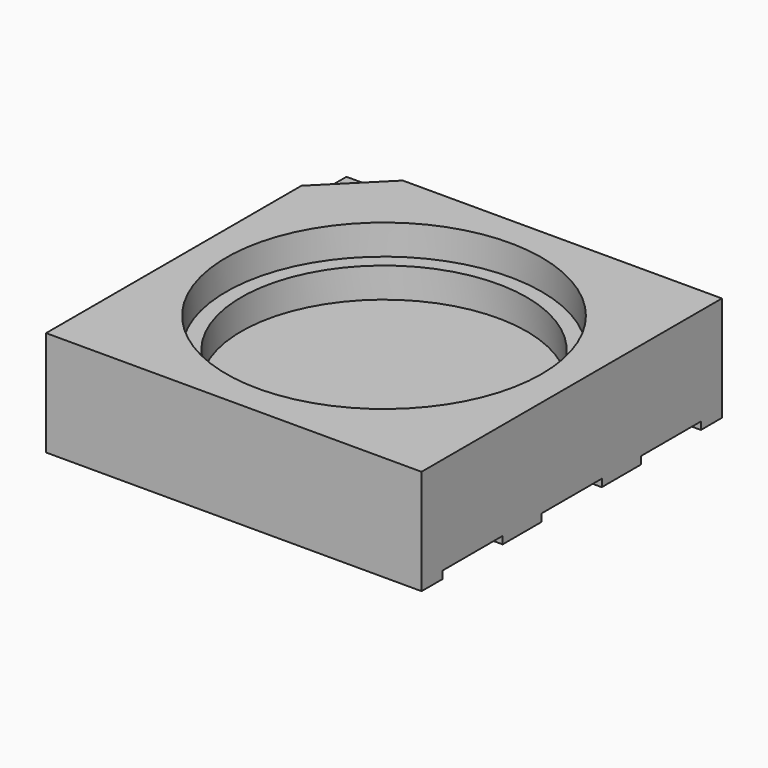
from build123d import *

# Parameters (mm, degrees)
SKETCH003_R       = 0.45
SKETCH003_W       = 0.8
SKETCH003_H       = 1
EXTRUDE002_DEPTH  = 0.1
EXTRUDE001_DEPTH  = 0.2
CYLINDER001_R     = 1.9
CYLINDER001_DEPTH = 0.8
CYLINDER_R        = 2.1
CYLINDER_DEPTH    = 0.4
SKETCH001_W       = 5
SKETCH001_H       = 5
EXTRUDE_DEPTH     = 1.4


with BuildPart() as bottomcutouts:
    # Sketch003 → Extrude002 (new body)
    with BuildSketch(Plane.XY):
        Circle(SKETCH003_R)
        with Locations((2.1, 0)):
            Rectangle(SKETCH003_W, SKETCH003_H)
        with Locations((2.1, 1.65)):
            Rectangle(SKETCH003_W, SKETCH003_H)
        with Locations((2.1, -1.65)):
            Rectangle(SKETCH003_W, SKETCH003_H)
        with Locations((-2.1, 0)):
            Rectangle(SKETCH003_W, SKETCH003_H)
        with Locations((-2.1, 1.65)):
            Rectangle(SKETCH003_W, SKETCH003_H)
        with Locations((-2.1, -1.65)):
            Rectangle(SKETCH003_W, SKETCH003_H)
    extrude(amount=EXTRUDE002_DEPTH)


with BuildPart() as trianglenotch:
    # Sketch002 → Extrude001 (new body)
    with BuildSketch(Plane.XY):
        Polygon((-2.5, 2.5), (-1.75, 2.5), (-2.5, 1.75), align=None)
    extrude(amount=EXTRUDE001_DEPTH)


with BuildPart() as trianglenotch_1:
    # Extrude001 placement: moved
    add(trianglenotch.part.moved(Location((0, 0, 1.2))))


with BuildPart() as obj1:
    # Cylinder001 → Cylinder001 (new body)
    with BuildSketch(Plane.XY.offset(0.6)):
        Circle(CYLINDER001_R)
    extrude(amount=CYLINDER001_DEPTH)


with BuildPart() as lenshole:
    # Cylinder → Cylinder (new body)
    with BuildSketch(Plane.XY.offset(1)):
        Circle(CYLINDER_R)
    extrude(amount=CYLINDER_DEPTH)


with BuildPart() as plasticbody:
    # Sketch001 → Extrude (new body)
    with BuildSketch(Plane.XY):
        Rectangle(SKETCH001_W, SKETCH001_H)
    extrude(amount=EXTRUDE_DEPTH)

    # Cut: cut LensHole
    add(lenshole.part, mode=Mode.SUBTRACT)

    # Cut001: cut obj1
    add(obj1.part, mode=Mode.SUBTRACT)

    # Cut002: cut TriangleNotch
    add(trianglenotch_1.part, mode=Mode.SUBTRACT)

    # Cut003: cut BottomCutouts
    add(bottomcutouts.part, mode=Mode.SUBTRACT)


solid = plasticbody.part
